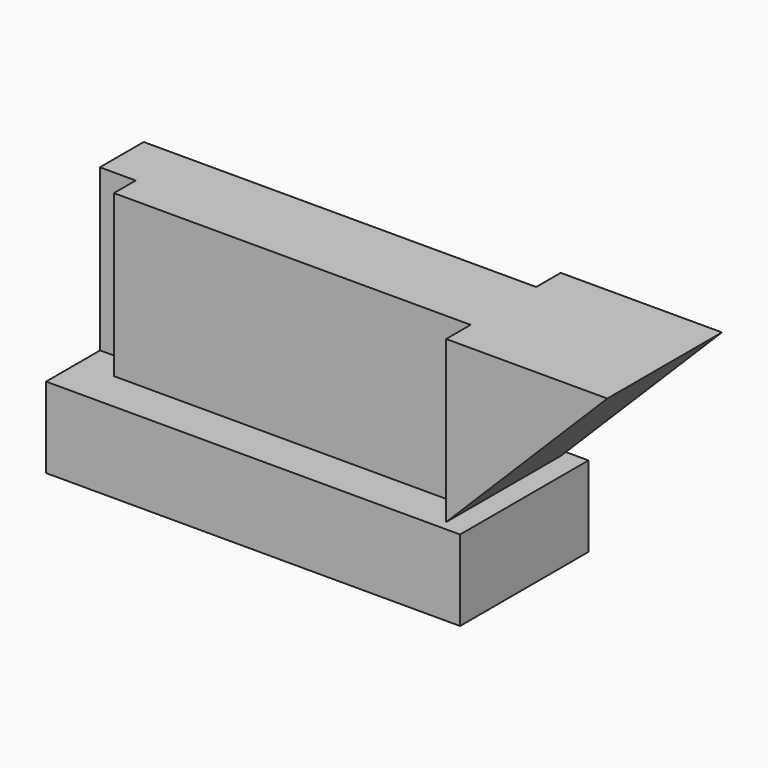
from build123d import *

# Parameters (mm, degrees)
F1_DEPTH = 28.575
F2_W     = 73.406
F2_H     = 28.448
F3_DEPTH = 14.2875
F5_DEPTH = 26.741029


with BuildPart() as f1:
    # F0 (on Top) → F1 (new body)
    with BuildSketch(Plane.XY):
        Polygon((0, -14.389101), (28.583242, -14.389101), (28.583242, 11.010899), (0, 11.010899), (0, 5.581491), (-69.596, 5.581491), (-69.596, -4.133693), (-63.246, -4.133693), (-63.246, -8.959693), (0, -8.959693), align=None)
        Polygon((0, -14.389101), (28.583242, -14.389101), (28.583242, 11.010899), (0, 11.010899), (0, 5.581491), (-69.596, 5.581491), (-69.596, -4.133693), (-63.246, -4.133693), (-63.246, -8.959693), (0, -8.959693), align=None)
    extrude(amount=F1_DEPTH)

    # F2 (on Top) → F3 (join)
    with BuildSketch(Plane.XY):
        with Locations((-32.863217, -1.873072)):
            Rectangle(F2_W, F2_H)
    extrude(amount=-F3_DEPTH)

    # F4 (on face) → F5 (cut, through all)
    with BuildSketch(Plane.XZ.offset(14.389101)):
        Polygon((28.583242, 0), (28.583242, 28.575), (0.008242, 0), (3.839783, 0), align=None)
    extrude(amount=-F5_DEPTH, mode=Mode.SUBTRACT)


solid = f1.part
